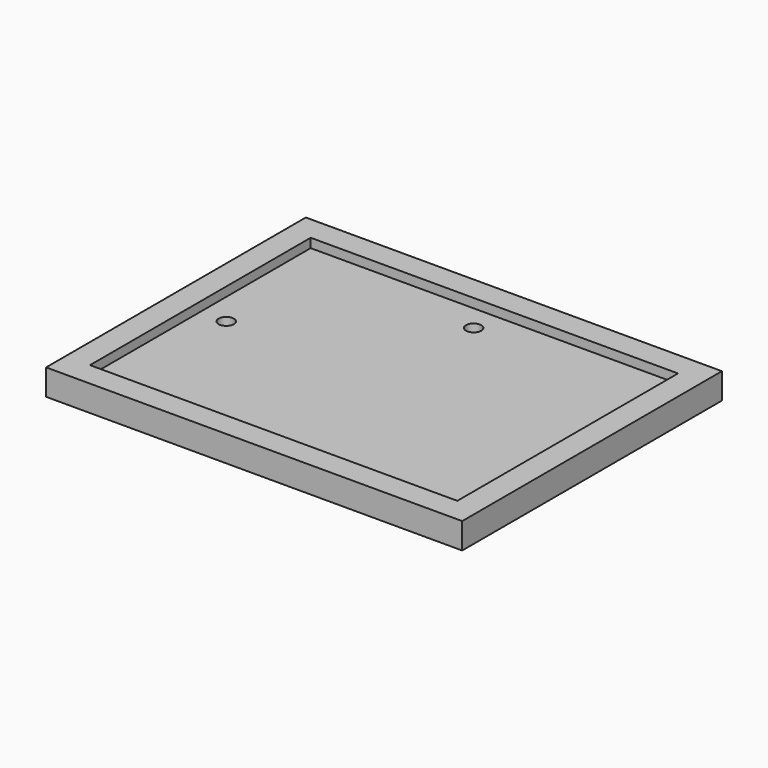
from build123d import *

# Parameters (mm, degrees)
F0_W     = 273
F0_H     = 213
F0_W_2   = 241
F0_H_2   = 181
F1_DEPTH = 17
F0_R     = 5
F2_DEPTH = 11


with BuildPart() as f1:
    # F0 (on Top) → F1 (new body)
    with BuildSketch(Plane.XY):
        Rectangle(F0_W, F0_H)
        Rectangle(F0_W_2, F0_H_2, mode=Mode.SUBTRACT)
    extrude(amount=F1_DEPTH)

    # F0 (on Top) → F2 (join)
    with BuildSketch(Plane.XY):
        Rectangle(F0_W_2, F0_H_2)
        with Locations((-103.5, 0)):
            Circle(F0_R, mode=Mode.SUBTRACT)
        with Locations((0, 73.5)):
            Circle(F0_R, mode=Mode.SUBTRACT)
    extrude(amount=F2_DEPTH)


solid = f1.part
